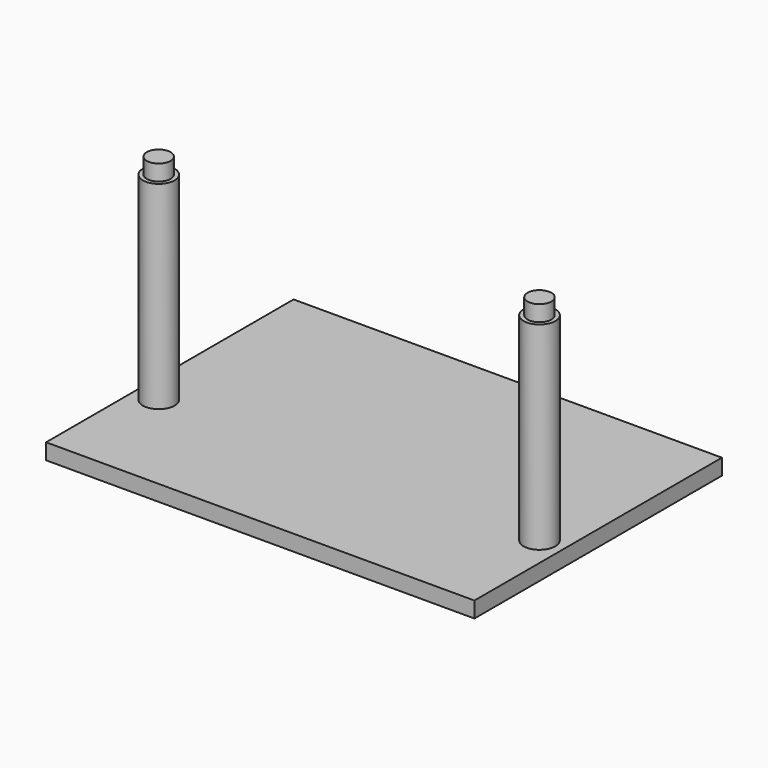
from build123d import *

# Parameters (mm, degrees)
SKETCH_W     = 54
SKETCH_H     = 39
PAD_DEPTH    = 2
SKETCH001_R  = 2
PAD001_DEPTH = 25
SKETCH002_R  = 1.5
PAD002_DEPTH = 2
SKETCH003_R  = 1.5
PAD003_DEPTH = 2


with BuildPart() as part:
    # Sketch → Pad (new body)
    with BuildSketch(Plane.XY):
        with Locations((27, 19.5)):
            Rectangle(SKETCH_W, SKETCH_H)
    extrude(amount=PAD_DEPTH)

    # Sketch001 (on Face6 of Pad) → Pad001 (join)
    with BuildSketch(Plane.XY.offset(2)):
        with Locations((3, 14)):
            Circle(SKETCH001_R)
        with Locations((51, 14)):
            Circle(SKETCH001_R)
    extrude(amount=PAD001_DEPTH)

    # Sketch002 (on Face9 of Pad001) → Pad002 (join)
    with BuildSketch(Plane.XY.offset(27)):
        with Locations((51, 14)):
            Circle(SKETCH002_R)
    extrude(amount=PAD002_DEPTH)

    # Sketch003 (on Face9 of Pad002) → Pad003 (join)
    with BuildSketch(Plane.XY.offset(27)):
        with Locations((3, 14)):
            Circle(SKETCH003_R)
    extrude(amount=PAD003_DEPTH)


solid = part.part
